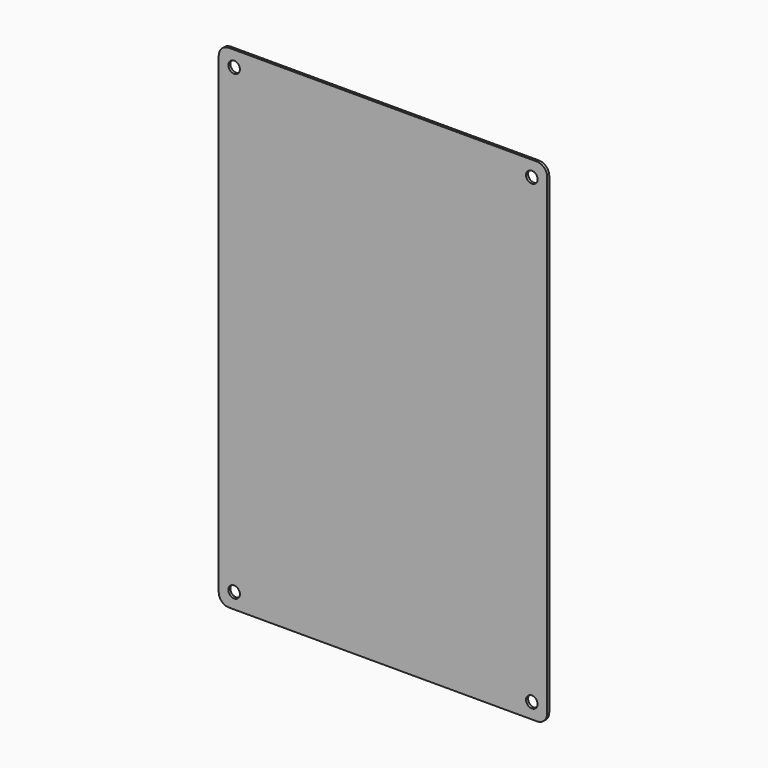
from build123d import *

# Parameters (mm, degrees)
F1_DEPTH = 1.5875


with BuildPart() as f1:
    # F0 (on Front) → F1 (new body)
    with BuildSketch(Plane.XZ):
        with BuildLine():
            Line((-97.17259, 262.83665), (-100.34759, 262.83665))
            ThreePointArc((-100.34759, 262.83665), (-104.837718, 260.976778), (-106.69759, 256.48665))
            Line((-106.69759, 256.48665), (-106.69759, 253.31165))
            Line((-106.69759, 253.31165), (-100.74129, 253.31165))
            ThreePointArc((-100.74129, 253.31165), (-99.696042, 255.835102), (-97.17259, 256.88035))
            Line((-97.17259, 256.88035), (-97.17259, 262.83665))
        make_face()
        with BuildLine():
            Line((86.97741, 262.83665), (-97.17259, 262.83665))
            Line((-97.17259, 262.83665), (-97.17259, 256.88035))
            ThreePointArc((-97.17259, 256.88035), (-94.649138, 255.835102), (-93.60389, 253.31165))
            ThreePointArc((-93.60389, 253.31165), (-97.17259, 249.74295), (-100.74129, 253.31165))
            Line((-100.74129, 253.31165), (-106.69759, 253.31165))
            Line((-106.69759, 253.31165), (-106.69759, -32.43835))
            Line((-106.69759, -32.43835), (-100.74129, -32.43835))
            ThreePointArc((-100.74129, -32.43835), (-97.17259, -28.86965), (-93.60389, -32.43835))
            ThreePointArc((-93.60389, -32.43835), (-94.649138, -34.961802), (-97.17259, -36.00705))
            Line((-97.17259, -36.00705), (-97.17259, -41.96335))
            Line((-97.17259, -41.96335), (86.97741, -41.96335))
            Line((86.97741, -41.96335), (86.97741, -36.00705))
            ThreePointArc((86.97741, -36.00705), (84.453958, -29.914898), (90.54611, -32.43835))
            Line((90.54611, -32.43835), (96.50241, -32.43835))
            Line((96.50241, -32.43835), (96.50241, 253.31165))
            Line((96.50241, 253.31165), (90.54611, 253.31165))
            ThreePointArc((90.54611, 253.31165), (84.453958, 250.788198), (86.97741, 256.88035))
            Line((86.97741, 256.88035), (86.97741, 262.83665))
        make_face()
        with BuildLine():
            Line((90.15241, 262.83665), (86.97741, 262.83665))
            Line((86.97741, 262.83665), (86.97741, 256.88035))
            ThreePointArc((86.97741, 256.88035), (89.500862, 255.835102), (90.54611, 253.31165))
            Line((90.54611, 253.31165), (96.50241, 253.31165))
            Line((96.50241, 253.31165), (96.50241, 256.48665))
            ThreePointArc((96.50241, 256.48665), (94.642538, 260.976778), (90.15241, 262.83665))
        make_face()
        with BuildLine():
            Line((-100.74129, -32.43835), (-106.69759, -32.43835))
            Line((-106.69759, -32.43835), (-106.69759, -35.61335))
            ThreePointArc((-106.69759, -35.61335), (-104.837718, -40.103478), (-100.34759, -41.96335))
            Line((-100.34759, -41.96335), (-97.17259, -41.96335))
            Line((-97.17259, -41.96335), (-97.17259, -36.00705))
            ThreePointArc((-97.17259, -36.00705), (-99.696042, -34.961802), (-100.74129, -32.43835))
        make_face()
        with BuildLine():
            Line((96.50241, -35.61335), (96.50241, -32.43835))
            Line((96.50241, -32.43835), (90.54611, -32.43835))
            ThreePointArc((90.54611, -32.43835), (89.500862, -34.961802), (86.97741, -36.00705))
            Line((86.97741, -36.00705), (86.97741, -41.96335))
            Line((86.97741, -41.96335), (90.15241, -41.96335))
            ThreePointArc((90.15241, -41.96335), (94.642538, -40.103478), (96.50241, -35.61335))
        make_face()
    extrude(amount=F1_DEPTH)


solid = f1.part
